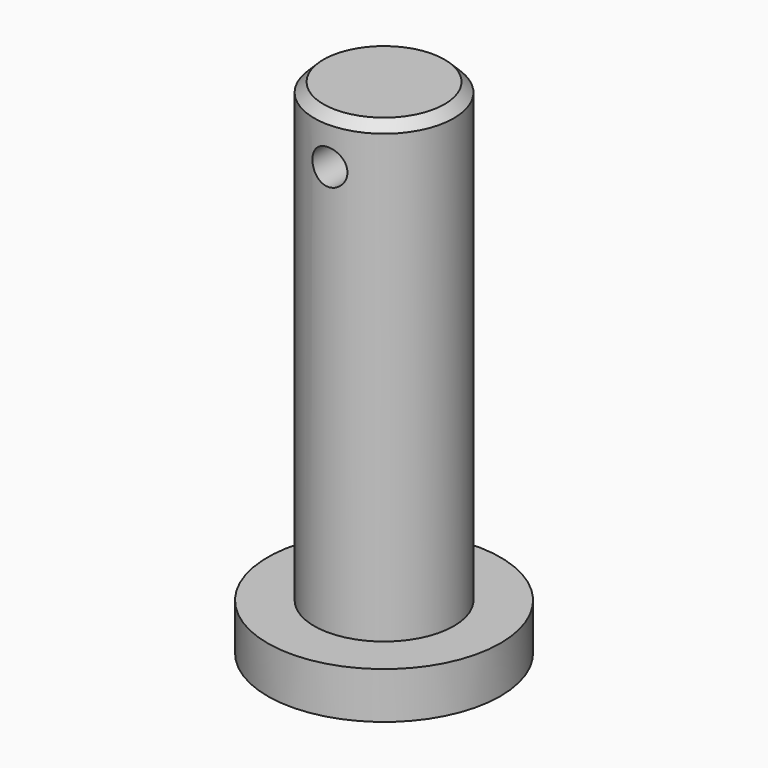
from build123d import *

# Parameters (mm, degrees)
F0_R     = 15.875
F0_R_2   = 9.525
F1_DEPTH = 6.35
F2_DEPTH = 68.58
F3_R     = 2.3876
F4_DEPTH = 63.5
F5_SIZE  = 1.27


with BuildPart() as f1:
    # F0 (on Top) → F1 (new body)
    with BuildSketch(Plane.XY):
        Circle(F0_R)
        Circle(F0_R_2, mode=Mode.SUBTRACT)
    extrude(amount=F1_DEPTH)

    # F0 (on Top) → F2 (join)
    with BuildSketch(Plane.XY):
        Circle(F0_R_2)
    extrude(amount=F2_DEPTH)

    # F3 (on Front) → F4 (cut, symmetric)
    with BuildSketch(Plane.XZ):
        with Locations((0, 62.23)):
            Circle(F3_R)
    extrude(amount=F4_DEPTH, both=True, mode=Mode.SUBTRACT)

    # F5
    f5_edges = [f1.edges().sort_by_distance(p)[0] for p in [
        (-9.525, 0, 68.58),
    ]]
    chamfer(f5_edges, length=F5_SIZE)


solid = f1.part
